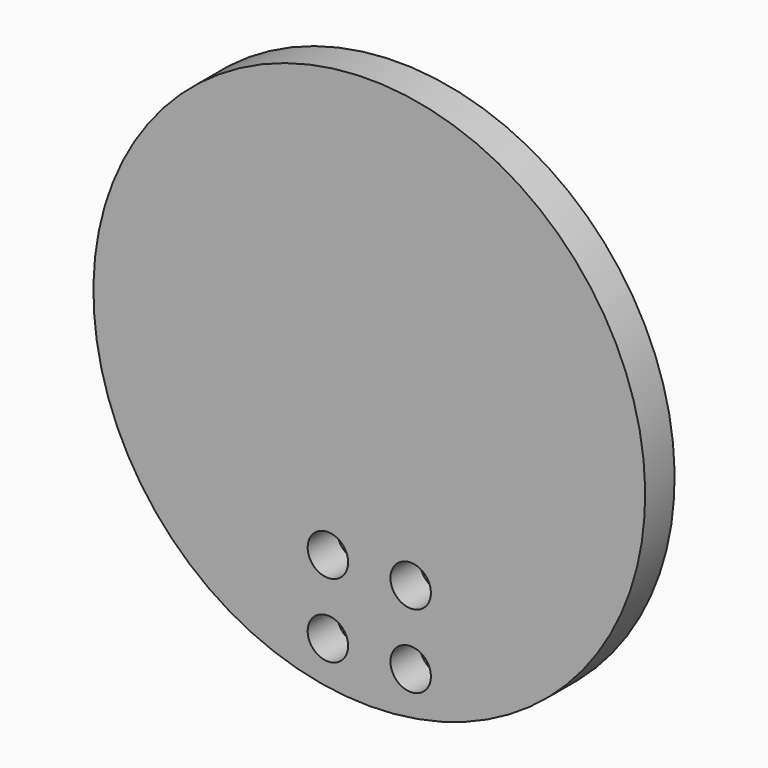
from build123d import *

# Parameters (mm, degrees)
CYLINDER035_R          = 2.2
CYLINDER035_DEPTH      = 26
CYLINDER035_ROLL_ANGLE = -90
ARRAY005_X_COUNT       = 2
ARRAY005_X_PITCH       = 8
ARRAY005_Z_COUNT       = 2
ARRAY005_Z_PITCH       = 9
CYLINDER034_R          = 30
CYLINDER034_DEPTH      = 4
CYLINDER034_ROLL_ANGLE = -90
CUT016_PITCH_ANGLE     = 90


with BuildPart() as obj1:
    # Cylinder035 → Cylinder035 (new body)
    with BuildSketch(Plane.XY):
        Circle(CYLINDER035_R)
    extrude(amount=CYLINDER035_DEPTH)


with BuildPart() as obj1_1:
    # Cylinder035 roll: moved
    add(obj1.part.rotate(Axis((0, 0, 0), (1, 0, 0)), CYLINDER035_ROLL_ANGLE))


with BuildPart() as obj1_2:
    # Cylinder035 placement: moved
    add(obj1_1.part.moved(Location((202, 0, 4))))

    # Array005 X: obj1_2


with BuildPart() as obj1_3:
    add(obj1_2.part)
    with Locations(*[(i * ARRAY005_X_PITCH, 0, 0) for i in range(1, ARRAY005_X_COUNT)]):
        add(obj1_2.part)

    # Array005 Z: obj1_2


with BuildPart() as obj1_4:
    add(obj1_3.part)
    with Locations(*[(0, 0, i * ARRAY005_Z_PITCH) for i in range(1, ARRAY005_Z_COUNT)]):
        add(obj1_3.part)


with BuildPart() as obj2:
    # Cylinder034 → Cylinder034 (new body)
    with BuildSketch(Plane.XY):
        Circle(CYLINDER034_R)
    extrude(amount=CYLINDER034_DEPTH)


with BuildPart() as obj2_1:
    # Cylinder034 roll: moved
    add(obj2.part.rotate(Axis((0, 0, 0), (1, 0, 0)), CYLINDER034_ROLL_ANGLE))


with BuildPart() as obj2_2:
    # Cylinder034 placement: moved
    add(obj2_1.part.moved(Location((185, 20, 8.5))))

    # Cut016: cut obj1
    add(obj1_4.part, mode=Mode.SUBTRACT)


with BuildPart() as obj2_3:
    # Cut016 pitch: moved
    add(obj2_2.part.rotate(Axis((0, 0, 0), (0, 1, 0)), CUT016_PITCH_ANGLE))


with BuildPart() as obj2_4:
    # Cut016 placement: moved
    add(obj2_3.part.moved(Location((359, 63, 497))))


solid = obj2_4.part
